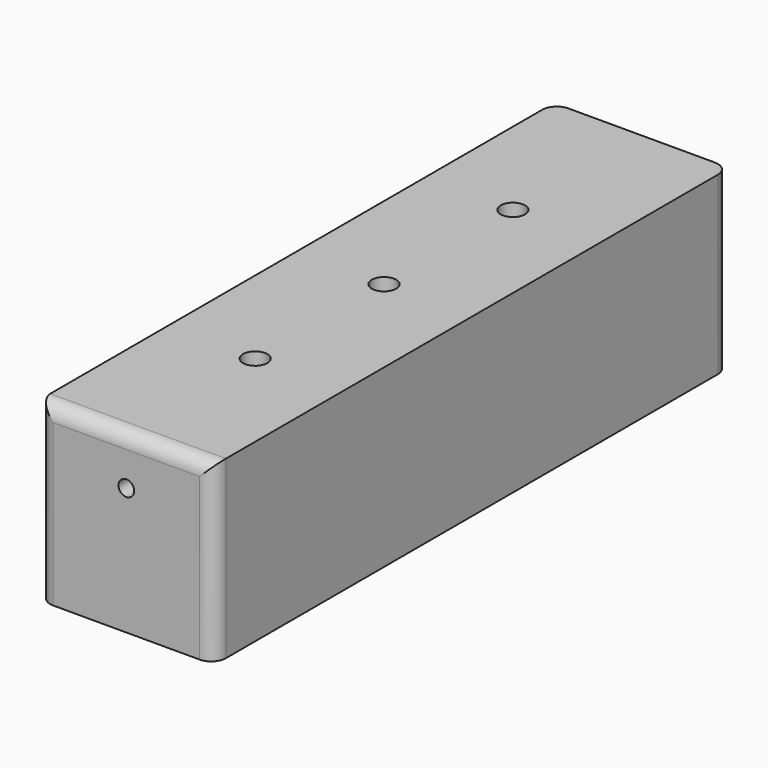
from build123d import *

# Parameters (mm, degrees)
F0_W     = 15
F0_H     = 15
F1_DEPTH = 55
F3_D     = 2.0828
F3_DEPTH = 2.54
F3_TIP   = 0.6257362487
F4_D     = 0.3937
F4_DEPTH = 0.889
F4_START = 3.0474568
F4_TIP   = 0.1182794129
F6_DEPTH = 58
F7_R     = 1.25
F8_D     = 1.6129
F8_DEPTH = 4.99
F8_START = 2.6811722
F8_TIP   = 0.4845640462


with BuildPart() as f1:
    # F0 (on Front) → F1 (new body)
    with BuildSketch(Plane.XZ):
        with Locations((-7.5, 7.5)):
            Rectangle(F0_W, F0_H)
    extrude(amount=F1_DEPTH)

    # F3
    with Locations(Plane.XY.offset(15)):
        with Locations((-7.5, -41.25), (-7.4999998324, -27.5), (-7.5, -13.7499999255)):
            Hole(F3_D / 2, depth=F3_DEPTH)
            with Locations((0, 0, -(F3_DEPTH + F3_TIP / 2))):  # 118° drill point
                Cone(0, F3_D / 2, F3_TIP, mode=Mode.SUBTRACT)

    # F4
    # its depths count from where the whole tool has entered the part; down to there all is cleared
    with Locations(Plane.XY.offset(15)):
        with Locations((-7.4999998324, -27.5), (-7.5, -13.7499999255), (-7.5, -41.25)):
            Hole(F4_D / 2, depth=F4_START)
    with Locations(Plane.XY.offset(15).offset(-F4_START)):
        with Locations((-7.4999998324, -27.5), (-7.5, -13.7499999255), (-7.5, -41.25)):
            Hole(F4_D / 2, depth=F4_DEPTH)
            with Locations((0, 0, -(F4_DEPTH + F4_TIP / 2))):  # 118° drill point
                Cone(0, F4_D / 2, F4_TIP, mode=Mode.SUBTRACT)

    # F5 (on face) → F6 (cut)
    with BuildSketch(Plane.XZ.offset(55)):
        with BuildLine():
            ThreePointArc((-6.8319246429, 10.8540169895), (-7.0275993847, 11.3264176048), (-7.5, 11.5220923465))
            ThreePointArc((-7.5, 11.5220923465), (-7.9724006153, 10.3816163741), (-6.8319246429, 10.8540169895))
        make_face()
    extrude(amount=-F6_DEPTH, mode=Mode.SUBTRACT)

    # F7
    f7_edges = [f1.edges().sort_by_distance(p)[0] for p in [
        (-7.5, -55, 15),
        (0, 0, 7.5),
        (-15, 0, 7.5),
        (-15, -55, 7.5),
        (0, -55, 7.5),
    ]]
    fillet(f7_edges, radius=F7_R)

    # F8
    # its depths count from where the whole tool has entered the part; down to there all is cleared
    with Locations(Plane.XY.offset(15).offset(-F8_START)):
        with Locations((-7.4999998324, -27.5)):
            Hole(F8_D / 2, depth=F8_DEPTH)
            with Locations((0, 0, -(F8_DEPTH + F8_TIP / 2))):  # 118° drill point
                Cone(0, F8_D / 2, F8_TIP, mode=Mode.SUBTRACT)


solid = f1.part
